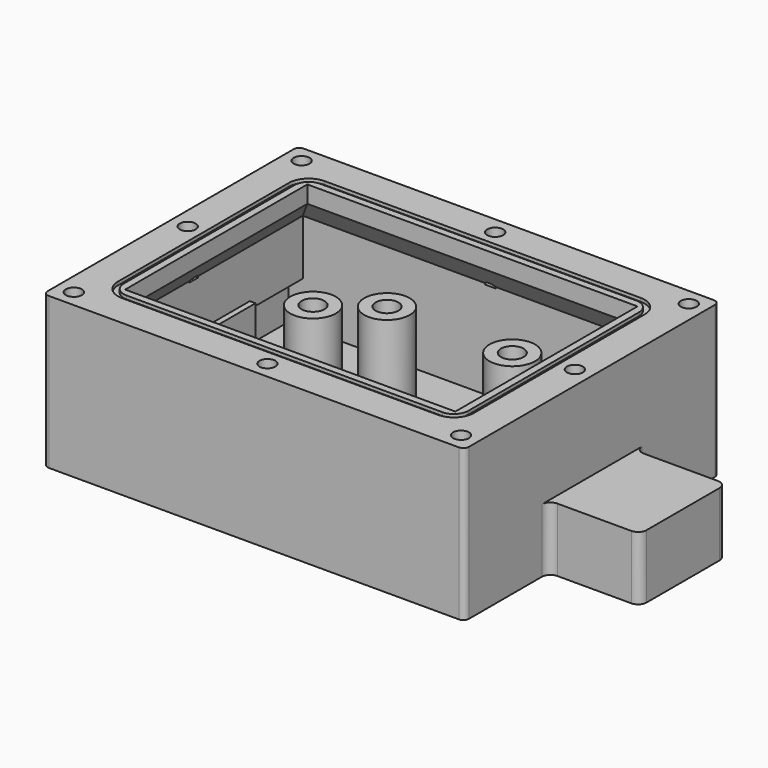
from build123d import *

# Parameters (mm, degrees)
PAD_DEPTH       = 1.6
SKETCH001_W     = 66
SKETCH001_H     = 48
PAD001_DEPTH    = 26.6
PAD002_DEPTH    = 11.2
SKETCH003_W     = 16
SKETCH003_H     = 8
POCKET_DEPTH    = 16
SKETCH005_R     = 4
SKETCH005_R_2   = 2
PAD003_DEPTH    = 15.6
SKETCH006_W     = 1
SKETCH006_H     = 34.5
SKETCH006_H_2   = 12
PAD004_DEPTH    = 11.6
SKETCH007_R     = 4
SKETCH007_R_2   = 2
PAD005_DEPTH    = 11.6
PAD006_DEPTH    = 24
PAD007_DEPTH    = 66
POCKET002_DEPTH = 0.6
SKETCH018_W     = 48
SKETCH018_H     = 7.5
POCKET003_DEPTH = 2.5
SKETCH008_R     = 1.4
POCKET004_DEPTH = 8


with BuildPart() as part:
    # Sketch → Pad (new body)
    with BuildSketch(Plane.XY):
        with BuildLine():
            Line((-36, 28), (36, 28))
            ThreePointArc((37, 27), (36.707107, 27.707107), (36, 28))
            Line((37, 27), (37, -27))
            ThreePointArc((36, -28), (36.707107, -27.707107), (37, -27))
            Line((36, -28), (-36, -28))
            ThreePointArc((-37, -27), (-36.707107, -27.707107), (-36, -28))
            Line((-37, -27), (-37, 27))
            ThreePointArc((-36, 28), (-36.707107, 27.707107), (-37, 27))
        make_face()
        with BuildLine():
            ThreePointArc((-12.5, 5), (-17.5, 0), (-12.5, -5))
            Line((-12.5, -5), (12.5, -5))
            ThreePointArc((12.5, -5), (17.5, 0), (12.5, 5))
            Line((12.5, 5), (-12.5, 5))
        make_face(mode=Mode.SUBTRACT)
    extrude(amount=PAD_DEPTH)

    # Sketch001 → Pad001 (join)
    with BuildSketch(Plane.XY):
        with BuildLine():
            Line((-36, 28), (36, 28))
            ThreePointArc((37, 27), (36.707107, 27.707107), (36, 28))
            Line((37, 27), (37, -27))
            ThreePointArc((36, -28), (36.707107, -27.707107), (37, -27))
            Line((36, -28), (-36, -28))
            ThreePointArc((-37, -27), (-36.707107, -27.707107), (-36, -28))
            Line((-37, -27), (-37, 27))
            ThreePointArc((-36, 28), (-36.707107, 27.707107), (-37, 27))
        make_face()
        Rectangle(SKETCH001_W, SKETCH001_H, mode=Mode.SUBTRACT)
    extrude(amount=PAD001_DEPTH)

    # Sketch002 → Pad002 (join)
    with BuildSketch(Plane.XY):
        with BuildLine():
            Line((51.5, 9.499999), (38.5, 9.499999))
            ThreePointArc((37, 11.000001), (37.439339, 9.93934), (38.5, 9.499999))
            Line((37, 11.000001), (37, 0))
            Line((37, 0), (37, -11.000001))
            ThreePointArc((38.5, -9.500001), (37.43934, -9.939341), (37, -11.000001))
            Line((38.5, -9.500001), (51.5, -9.500001))
            ThreePointArc((51.5, -9.500001), (52.56066, -9.060661), (53, -8.000001))
            Line((53, 7.999999), (53, -8.000001))
            ThreePointArc((53, 7.999999), (52.56066, 9.060659), (51.5, 9.499999))
        make_face()
    extrude(amount=PAD002_DEPTH)

    # Sketch003 (on DatumPlane) → Pocket (cut)
    with BuildSketch(Plane.YZ.offset(33)):
        with Locations((0, 5.6)):
            Rectangle(SKETCH003_W, SKETCH003_H)
    extrude(amount=POCKET_DEPTH, mode=Mode.SUBTRACT)

    # Sketch005 → Pad003 (join)
    with BuildSketch(Plane.XY):
        with Locations((-11, 15)):
            Circle(SKETCH005_R)
        with Locations((-11, 15)):
            Circle(SKETCH005_R_2, mode=Mode.SUBTRACT)
        with Locations((11, 15)):
            Circle(SKETCH005_R)
        with Locations((11, 15)):
            Circle(SKETCH005_R_2, mode=Mode.SUBTRACT)
    extrude(amount=PAD003_DEPTH)

    # Sketch006 → Pad004 (join)
    with BuildSketch(Plane.XY):
        with Locations((-31, -6.75)):
            Rectangle(SKETCH006_W, SKETCH006_H)
        with Locations((29, -18)):
            Rectangle(SKETCH006_W, SKETCH006_H_2)
    extrude(amount=PAD004_DEPTH)

    # Sketch007 → Pad005 (join)
    with BuildSketch(Plane.XY):
        with Locations((-24, 15)):
            Circle(SKETCH007_R)
        with Locations((-24, 15)):
            Circle(SKETCH007_R_2, mode=Mode.SUBTRACT)
        with Locations((24, 15)):
            Circle(SKETCH007_R)
        with Locations((24, 15)):
            Circle(SKETCH007_R_2, mode=Mode.SUBTRACT)
    extrude(amount=PAD005_DEPTH)

    # Sketch009 → Pad006 (join, symmetric)
    with BuildSketch(Plane.XZ):
        Polygon((-33, 26.6), (-29, 26.6), (-29, 23.6), (-33, 18.832986), align=None)
        Polygon((29, 26.6), (33, 26.6), (33, 18.832986), (29, 23.6), align=None)
    extrude(amount=PAD006_DEPTH, both=True)

    # Sketch010 (on DatumPlane) → Pad007 (join)
    with BuildSketch(Plane(origin=(-33, 0, 0), x_dir=(0, -1, 0), z_dir=(-1, 0, 0))):
        Polygon((-24, 18.832986), (-20, 23.6), (-20, 26.6), (-24, 26.6), align=None)
        Polygon((24, 26.6), (20, 26.6), (20, 23.6), (24, 18.832986), align=None)
    extrude(amount=-PAD007_DEPTH)

    # Sketch011 (on DatumPlane) → Pocket002 (cut)
    with BuildSketch(Plane.XY.offset(26.6)):
        with BuildLine():
            Line((-27.75, 22.25), (27.75, 22.25))
            ThreePointArc((31.25, 18.75), (30.224874, 21.224874), (27.75, 22.25))
            Line((31.25, 18.75), (31.25, -18.75))
            ThreePointArc((27.75, -22.25), (30.224874, -21.224874), (31.25, -18.75))
            Line((27.75, -22.25), (-27.75, -22.25))
            ThreePointArc((-31.25, -18.75), (-30.224874, -21.224874), (-27.75, -22.25))
            Line((-31.25, -18.75), (-31.25, 18.75))
            ThreePointArc((-27.75, 22.25), (-30.224874, 21.224874), (-31.25, 18.75))
        make_face()
        with BuildLine():
            Line((-27.75, 21.25), (27.75, 21.25))
            ThreePointArc((30.25, 18.75), (29.517767, 20.517767), (27.75, 21.25))
            Line((30.25, 18.75), (30.25, -18.75))
            ThreePointArc((27.75, -21.25), (29.517767, -20.517767), (30.25, -18.75))
            Line((27.75, -21.25), (-27.75, -21.25))
            ThreePointArc((-30.25, -18.75), (-29.517767, -20.517767), (-27.75, -21.25))
            Line((-30.25, -18.75), (-30.25, 18.75))
            ThreePointArc((-27.75, 21.25), (-29.517767, 20.517767), (-30.25, 18.75))
        make_face(mode=Mode.SUBTRACT)
    extrude(amount=-POCKET002_DEPTH, mode=Mode.SUBTRACT)

    # Sketch018 (on DatumPlane) → Pocket003 (cut)
    with BuildSketch(Plane(origin=(-33, 0, 0), x_dir=(0, -1, 0), z_dir=(-1, 0, 0))):
        with Locations((0, 5.35)):
            Rectangle(SKETCH018_W, SKETCH018_H)
    extrude(amount=POCKET003_DEPTH, mode=Mode.SUBTRACT)

    # Sketch008 (on DatumPlane) → Pocket004 (cut)
    with BuildSketch(Plane.XY.offset(26.6)):
        with Locations((-34, 25)):
            Circle(SKETCH008_R)
        with Locations((0, 25)):
            Circle(SKETCH008_R)
        with Locations((34, 25)):
            Circle(SKETCH008_R)
        with Locations((-34, -25)):
            Circle(SKETCH008_R)
        with Locations((0, -25)):
            Circle(SKETCH008_R)
        with Locations((34, -25)):
            Circle(SKETCH008_R)
        with Locations((-34, 0)):
            Circle(SKETCH008_R)
        with Locations((34, 0)):
            Circle(SKETCH008_R)
    extrude(amount=-POCKET004_DEPTH, mode=Mode.SUBTRACT)


solid = part.part
